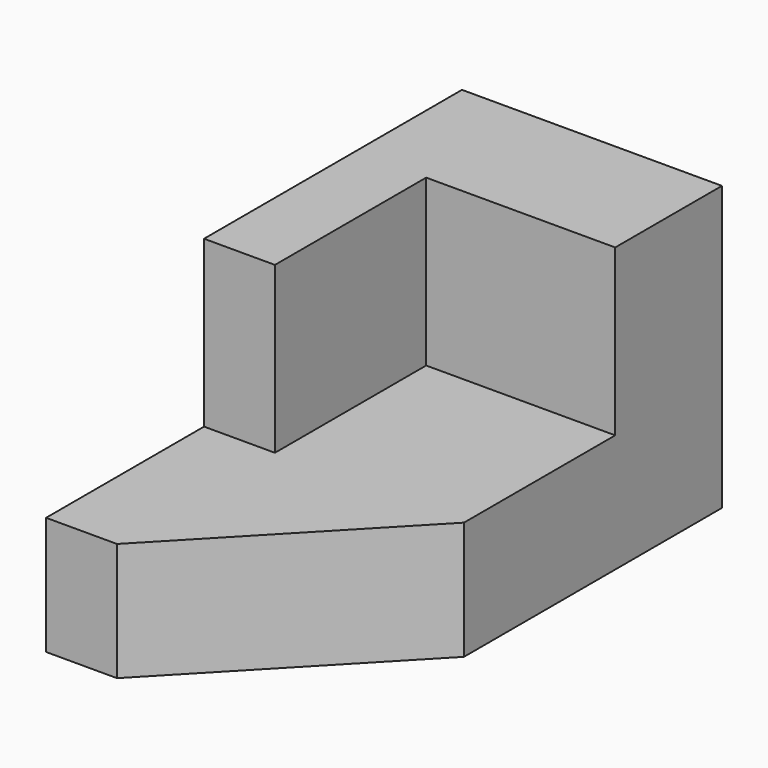
from build123d import *

# Parameters (mm, degrees)
F0_W     = 1397
F0_H     = 2794
F1_DEPTH = 635
F2_W     = 1397
F2_H     = 716.887832
F3_DEPTH = 889
F4_W     = 381
F4_H     = 1016
F5_DEPTH = 889
F7_DEPTH = 635


with BuildPart() as f1:
    # F0 (on Top) → F1 (new body)
    with BuildSketch(Plane.XY):
        with Locations((-698.5, -1397)):
            Rectangle(F0_W, F0_H)
    extrude(amount=F1_DEPTH)

    # F2 (on face) → F3 (join)
    with BuildSketch(Plane.XY.offset(635)):
        with Locations((-698.5, -358.443916)):
            Rectangle(F2_W, F2_H)
    extrude(amount=F3_DEPTH)

    # F4 (on face) → F5 (join)
    with BuildSketch(Plane.XY.offset(635)):
        with Locations((-1206.5, -1224.887832)):
            Rectangle(F4_W, F4_H)
    extrude(amount=F5_DEPTH)

    # F6 (on face) → F7 (cut)
    with BuildSketch(Plane.XY.offset(635)):
        Polygon((0, -2794), (0, -1732.887832), (-1016, -2794), align=None)
    extrude(amount=-F7_DEPTH, mode=Mode.SUBTRACT)


solid = f1.part
